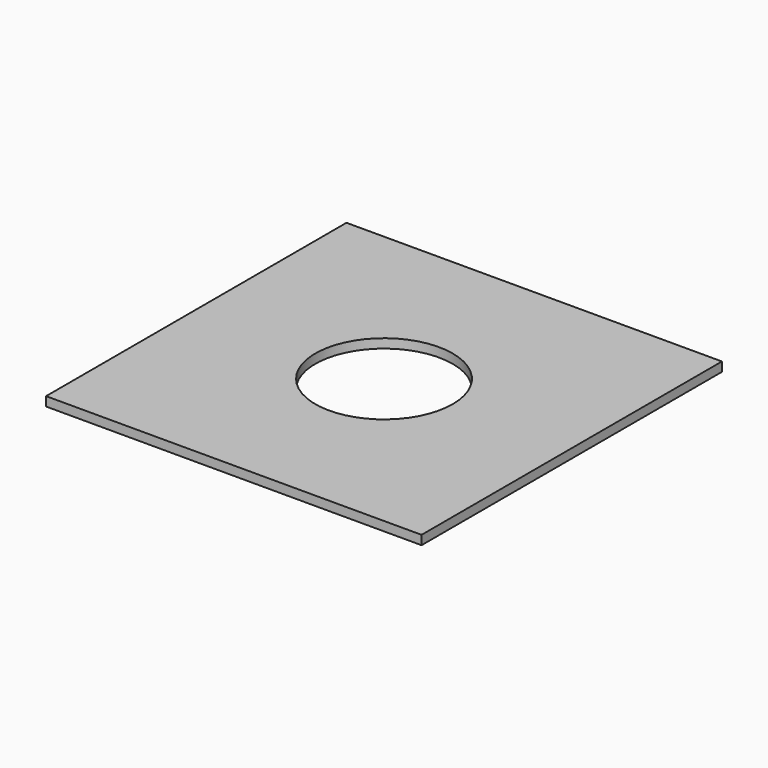
from build123d import *

# Parameters (mm, degrees)
SKETCH015_R      = 150
EXTRUDE011_DEPTH = 20
SKETCH014_W      = 820
SKETCH014_H      = 820
EXTRUDE009_DEPTH = 20


with BuildPart() as extrude013:
    # Sketch015 (on Face6 of Extrude009) → Extrude011 (new body)
    with BuildSketch(Plane.XY.offset(370)):
        Circle(SKETCH015_R)
    extrude(amount=-EXTRUDE011_DEPTH)


with BuildPart() as cut006:
    # Sketch014 (on Face8 of Extrude) → Extrude009 (new body)
    with BuildSketch(Plane.XY.offset(350)):
        Rectangle(SKETCH014_W, SKETCH014_H)
    extrude(amount=EXTRUDE009_DEPTH)

    # Cut006: cut Extrude013
    add(extrude013.part, mode=Mode.SUBTRACT)


solid = cut006.part
